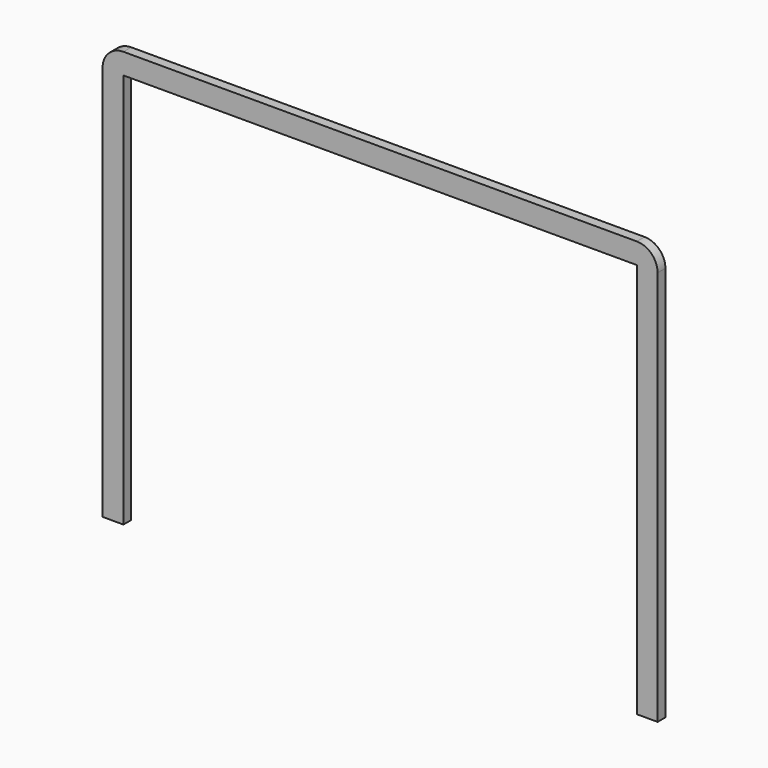
from build123d import *

# Parameters (mm, degrees)
F1_DEPTH = 1.4


with BuildPart() as f1:
    # F0 (on Front) → F1 (new body)
    with BuildSketch(Plane.XZ):
        with BuildLine():
            Line((37, 60), (-37, 60))
            ThreePointArc((-37, 60), (-39.12132, 59.12132), (-40, 57))
            Line((-40, 57), (-40, 0))
            Line((-40, 0), (-37, 0))
            Line((-37, 0), (-37, 57))
            Line((-37, 57), (37, 57))
            Line((37, 57), (37, 0))
            Line((37, 0), (40, 0))
            Line((40, 0), (40, 57))
            ThreePointArc((40, 57), (39.12132, 59.12132), (37, 60))
        make_face()
    extrude(amount=F1_DEPTH)


solid = f1.part
